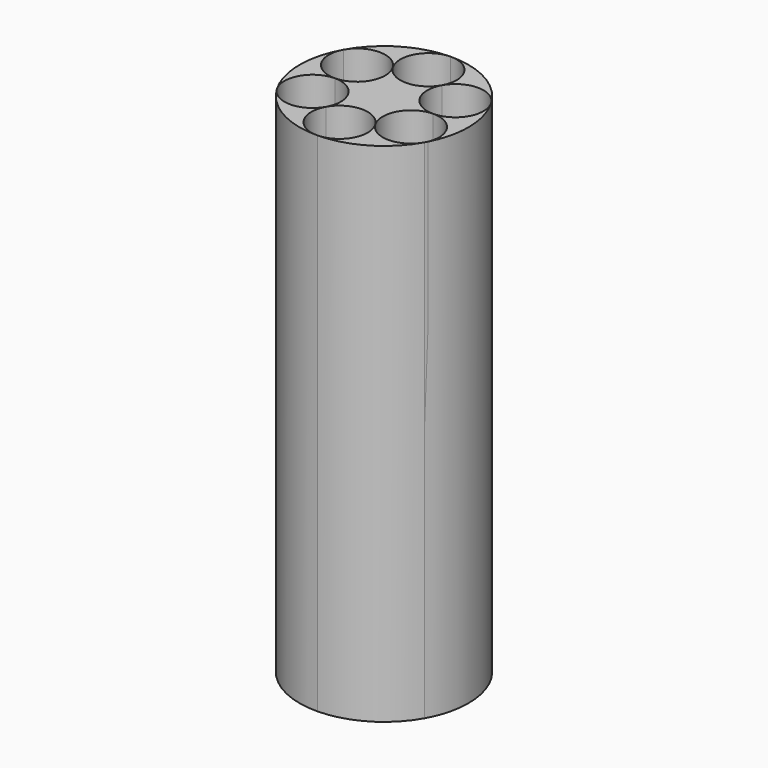
from build123d import *

# Parameters (mm, degrees)
F1_DEPTH      = 152.4
F1_DEPTH_BACK = 152.4


with BuildPart() as f1:
    # F0 (on Top) → F1 (new body, two sides)
    with BuildSketch(Plane.XY) as f1_sk:
        with BuildLine():
            ThreePointArc((-43.7234557856, -25.8630898031), (-24.9340787487, -44.2598205707), (0.536364441, -50.797168358))
            ThreePointArc((0.536364441, -50.797168358), (-14.2169091785, -42.4858081239), (-14.3956964201, -25.5534182585))
            ThreePointArc((-14.3956964201, -25.5534182585), (-28.9701816246, -34.1744492332), (-43.7234557856, -25.8630898031))
        make_face()
    extrude(amount=F1_DEPTH)
    extrude(f1_sk.sketch, amount=-F1_DEPTH_BACK)


with BuildPart() as f1b:
    # F0 (on Top) → F1, piece 2 (new body, two sides)
    with BuildSketch(Plane.XY) as f1_2_sk:
        with BuildLine():
            ThreePointArc((-29.3277589073, -0.3096703384), (-44.0810322731, 8.0016890697), (-44.2598208264, 24.9340782948))
            ThreePointArc((-44.2598208264, 24.9340782948), (-50.7971683516, -0.5363650435), (-43.7234557856, -25.8630898031))
            ThreePointArc((-43.7234557856, -25.8630898031), (-43.9022441637, -8.930700329), (-29.3277589073, -0.3096703384))
        make_face()
    extrude(amount=F1_DEPTH)
    extrude(f1_2_sk.sketch, amount=-F1_DEPTH_BACK)


with BuildPart() as f1c:
    # F0 (on Top) → F1, piece 3 (new body, two sides)
    with BuildSketch(Plane.XY) as f1_3_sk:
        with BuildLine():
            ThreePointArc((-14.9320616948, 25.2437488462), (-15.1108500175, 42.1761385063), (-0.5363644633, 50.7971683577))
            ThreePointArc((-0.5363644633, 50.7971683577), (-25.8630897425, 43.7234558214), (-44.2598208264, 24.9340782948))
            ThreePointArc((-44.2598208264, 24.9340782948), (-29.6853354506, 33.5551085643), (-14.9320616948, 25.2437488462))
        make_face()
    extrude(amount=F1_DEPTH)
    extrude(f1_3_sk.sketch, amount=-F1_DEPTH_BACK)


with BuildPart() as f1d:
    # F0 (on Top) → F1, piece 4 (new body, two sides)
    with BuildSketch(Plane.XY) as f1_4_sk:
        with BuildLine():
            ThreePointArc((14.3956964527, 25.5534183165), (28.9701819584, 34.1744492368), (43.7234560916, 25.8630892859))
            ThreePointArc((43.7234560916, 25.8630892859), (24.9340790008, 44.2598204287), (-0.5363644633, 50.7971683577))
            ThreePointArc((-0.5363644633, 50.7971683577), (11.5527194962, 45.9014988438), (16.5757568279, 33.8647789031))
            ThreePointArc((16.5757568279, 33.8647789031), (16.0216766298, 29.5685195406), (14.3956964527, 25.5534183165))
        make_face()
    extrude(amount=F1_DEPTH)
    extrude(f1_4_sk.sketch, amount=-F1_DEPTH_BACK)


with BuildPart() as f1e:
    # F0 (on Top) → F1, piece 5 (new body, two sides)
    with BuildSketch(Plane.XY) as f1_5_sk:
        with BuildLine():
            ThreePointArc((44.2598204293, -24.9340789998), (49.1377598075, -12.8887765555), (50.8, 0))
            ThreePointArc((50.8, 0), (48.9989365673, 13.4068719422), (43.7234560916, 25.8630892859))
            ThreePointArc((43.7234560916, 25.8630892859), (45.4819494673, 21.7110169545), (46.0823039042, 17.242059789))
            ThreePointArc((46.0823039042, 17.242059789), (41.1856904098, 5.3317636845), (29.3277582391, 0.3096703313))
            ThreePointArc((29.3277582391, 0.3096703313), (41.4168427654, -4.585998864), (46.4398804096, -16.622719114))
            ThreePointArc((46.4398804096, -16.622719114), (45.8858003136, -20.9189780875), (44.2598204293, -24.9340789998))
        make_face()
    extrude(amount=F1_DEPTH)
    extrude(f1_5_sk.sketch, amount=-F1_DEPTH_BACK)


with BuildPart() as f1f:
    # F0 (on Top) → F1, piece 6 (new body, two sides)
    with BuildSketch(Plane.XY) as f1_6_sk:
        with BuildLine():
            ThreePointArc((0.536364441, -50.797168358), (25.8630893846, -43.7234560331), (44.2598204293, -24.9340789998))
            ThreePointArc((44.2598204293, -24.9340789998), (29.6853351072, -33.5551085679), (14.9320617571, -25.2437489516))
            ThreePointArc((14.9320617571, -25.2437489516), (16.6905553321, -29.3958214828), (17.2909098388, -33.8647789031))
            ThreePointArc((17.2909098388, -33.8647789031), (12.3942964383, -45.7750749126), (0.536364441, -50.797168358))
        make_face()
    extrude(amount=F1_DEPTH)
    extrude(f1_6_sk.sketch, amount=-F1_DEPTH_BACK)


with BuildPart() as f1g:
    # F0 (on Top) → F1, piece 7 (new body, two sides)
    with BuildSketch(Plane.XY) as f1_7_sk:
        with BuildLine():
            ThreePointArc((29.3277582391, 0.3096703313), (14.5744854375, 8.6210296375), (14.3956964527, 25.5534183165))
            ThreePointArc((14.3956964527, 25.5534183165), (-0.1787887492, 16.9323894463), (-14.9320616948, 25.2437488462))
            ThreePointArc((-14.9320616948, 25.2437488462), (-13.173568216, 21.0916764114), (-12.573213743, 16.622719114))
            ThreePointArc((-12.573213743, 16.622719114), (-17.4698270613, 4.7124231875), (-29.3277589073, -0.3096703384))
            ThreePointArc((-29.3277589073, -0.3096703384), (-17.2386747038, -5.2053397151), (-12.2156372376, -17.242059789))
            ThreePointArc((-12.2156372376, -17.242059789), (-12.7697171274, -21.5383179763), (-14.3956964201, -25.5534182585))
            ThreePointArc((-14.3956964201, -25.5534182585), (0.1787888437, -16.9323894453), (14.9320617571, -25.2437489516))
            ThreePointArc((14.9320617571, -25.2437489516), (14.753273411, -8.3113597828), (29.3277582391, 0.3096703313))
        make_face()
    extrude(amount=F1_DEPTH)
    extrude(f1_7_sk.sketch, amount=-F1_DEPTH_BACK)


solid = Compound([f1.part, f1b.part, f1c.part, f1d.part, f1e.part, f1f.part, f1g.part])
